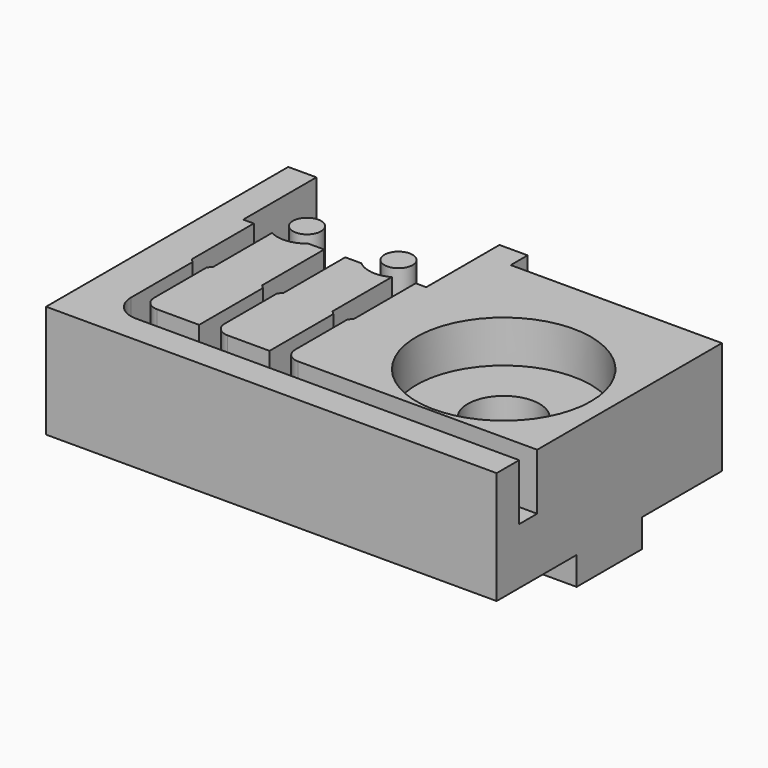
from build123d import *

# Parameters (mm, degrees)
SKETCH_R        = 2.55
PAD_DEPTH       = 10
SKETCH001_R     = 1
POCKET_DEPTH    = 6
SKETCH002_W     = 8.6
SKETCH002_H     = 2
SKETCH002_W_2   = 7.1
POCKET001_DEPTH = 32.001
POCKET002_DEPTH = 4
SKETCH004_R     = 6.2
POCKET003_DEPTH = 3


with BuildPart() as part:
    # Sketch → Pad (new body)
    with BuildSketch(Plane.XY):
        Polygon((0, 21.5), (0, 0), (32, 0), (32, 20), (17, 20), (17, 21.5), align=None)
        with Locations((24.5, 10)):
            Circle(SKETCH_R, mode=Mode.SUBTRACT)
    extrude(amount=PAD_DEPTH)

    # Sketch001 (on Face9 of Pad) → Pocket (cut)
    with BuildSketch(Plane.XY.offset(10)):
        with BuildLine():
            Line((2, 21.5), (15, 21.5))
            Line((15, 21.5), (15, 15))
            Line((13.110147, 15), (15, 15))
            ThreePointArc((10.389853, 15), (11.75, 14.5), (13.110147, 15))
            Line((8.5, 15), (10.389853, 15))
            Line((8.5, 15), (6.610147, 15))
            ThreePointArc((3.889853, 15), (5.25, 14.5), (6.610147, 15))
            Line((2, 15), (3.889853, 15))
            Line((2, 15), (2, 21.5))
        make_face()
        with Locations((5.25, 16.6)):
            Circle(SKETCH001_R, mode=Mode.SUBTRACT)
        with Locations((11.75, 16.6)):
            Circle(SKETCH001_R, mode=Mode.SUBTRACT)
    extrude(amount=-POCKET_DEPTH, mode=Mode.SUBTRACT)

    # Sketch002 (on Face1 of Pocket) → Pocket001 (cut, through all)
    with BuildSketch(Plane(origin=(0, 0, 0), x_dir=(0, -1, 0), z_dir=(-1, 0, 0))):
        with Locations((-17.2, 1)):
            Rectangle(SKETCH002_W, SKETCH002_H)
        with Locations((-3.55, 1)):
            Rectangle(SKETCH002_W_2, SKETCH002_H)
    extrude(amount=-POCKET001_DEPTH, mode=Mode.SUBTRACT)

    # Sketch003 (on Face8 of Pocket001) → Pocket002 (cut)
    with BuildSketch(Plane.XY.offset(10)):
        with BuildLine():
            Line((7.75, 15), (7.75, 9.5))
            Line((7.75, 9.5), (7.99, 9.26))
            Line((7.99, 3.6), (7.99, 9.26))
            Line((5.01, 3.6), (7.99, 3.6))
            ThreePointArc((4.01, 4.6), (4.302893, 3.892893), (5.01, 3.6))
            Line((4.01, 9.26), (4.01, 4.6))
            Line((4.25, 9.5), (4.01, 9.26))
            Line((4.25, 15), (4.25, 9.5))
            Line((2.75, 15), (4.25, 15))
            Line((2.75, 15), (2.75, 9.5))
            Line((2.75, 9.5), (2.99, 9.26))
            Line((2.99, 9.26), (2.99, 3.8))
            ThreePointArc((2.99, 3.8), (3.517208, 2.527208), (4.79, 2))
            Line((4.79, 2), (32, 2))
            Line((32, 2), (32, 3.6))
            Line((32, 3.6), (15.01, 3.6))
            ThreePointArc((14.01, 4.6), (14.302893, 3.892893), (15.01, 3.6))
            Line((14.01, 4.6), (14.01, 9.26))
            Line((14.01, 9.26), (14.25, 9.5))
            Line((14.25, 9.5), (14.25, 15))
            Line((14.25, 15), (12.75, 15))
            Line((12.75, 15), (12.75, 9.5))
            Line((12.75, 9.5), (12.99, 9.26))
            Line((12.99, 9.26), (12.99, 3.6))
            Line((12.99, 3.6), (10.01, 3.6))
            ThreePointArc((9.01, 4.6), (9.302893, 3.892893), (10.01, 3.6))
            Line((9.01, 4.6), (9.01, 9.26))
            Line((9.01, 9.26), (9.25, 9.5))
            Line((9.25, 9.5), (9.25, 15))
            Line((9.25, 15), (7.75, 15))
        make_face()
    extrude(amount=-POCKET002_DEPTH, mode=Mode.SUBTRACT)

    # Sketch004 (on Face23 of Pocket002) → Pocket003 (cut)
    with BuildSketch(Plane.XY.offset(10)):
        with Locations((24.5, 10)):
            Circle(SKETCH004_R)
    extrude(amount=-POCKET003_DEPTH, mode=Mode.SUBTRACT)


solid = part.part
